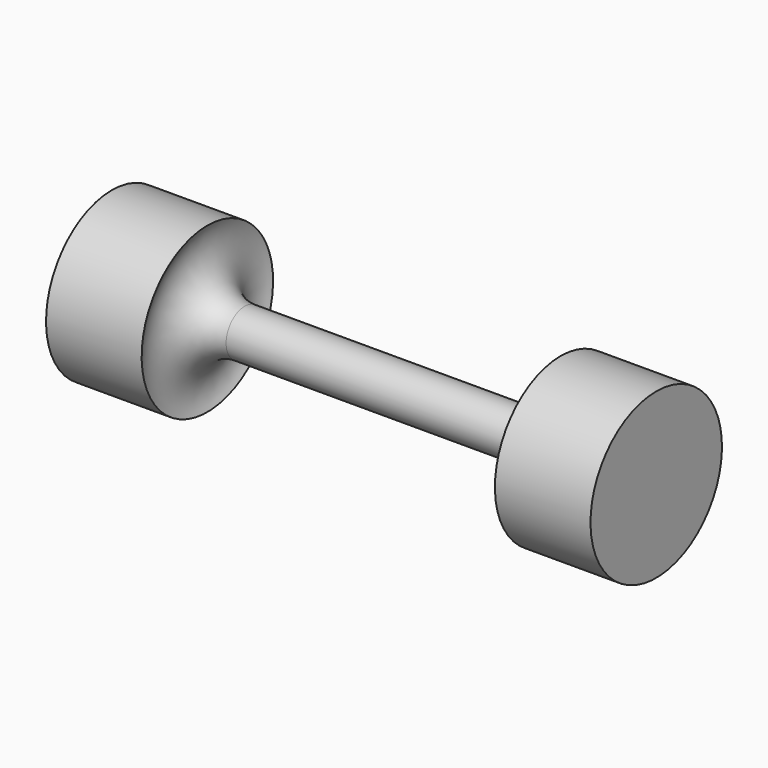
from build123d import *


with BuildPart() as f1:
    # F0 (on Front) → F1 (revolve)
    with BuildSketch(Plane.XZ):
        with BuildLine():
            Line((27, 4.5), (0, 4.5))
            Line((0, 4.5), (-27, 4.5))
            ThreePointArc((-27, 4.5), (-33.758553, 8.219585), (-34.232354, 15.919511))
            Line((-34.232354, 15.919511), (-52.756761, 15.919511))
            Line((-52.756761, 15.919511), (-52.756761, 0))
            Line((-52.756761, 0), (0, 0))
            Line((0, 0), (52.756761, 0))
            Line((52.756761, 0), (52.756761, 15.919511))
            Line((52.756761, 15.919511), (34.232354, 15.919511))
            ThreePointArc((34.232354, 15.919511), (33.758553, 8.219585), (27, 4.5))
        make_face()
    revolve(axis=Axis((-26.378381, 0, 0), (1, 0, 0)))


solid = f1.part
